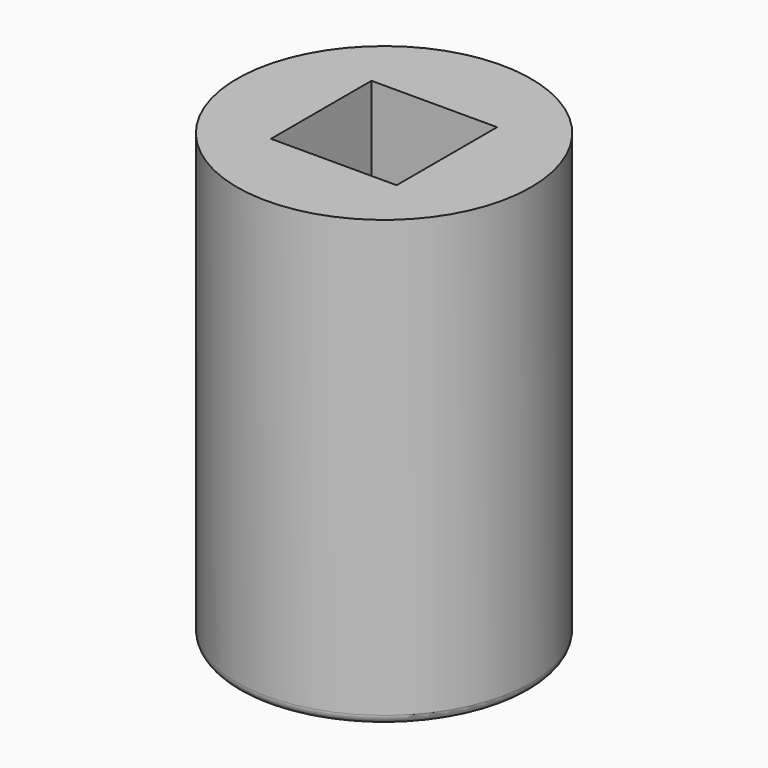
from build123d import *

# Parameters (mm, degrees)
F0_R     = 15.5
F1_DEPTH = 31
F2_R     = 15.5
F3_DEPTH = 16
F4_W     = 13.25
F4_H     = 13.25
F5_DEPTH = 16
F6_W     = 13.25
F6_H     = 1.5
F7_DEPTH = 0.25
F8_R     = 1


with BuildPart() as f1:
    # F0 (on Top) → F1 (new body)
    with BuildSketch(Plane.XY):
        Circle(F0_R)
        Polygon((-5.528129, 9.575), (5.528129, 9.575), (11.056258, 0), (5.528129, -9.575), (-5.528129, -9.575), (-11.056258, 0), align=None, mode=Mode.SUBTRACT)
    extrude(amount=F1_DEPTH)

    # F2 (on face) → F3 (join)
    with BuildSketch(Plane.XY.offset(31)):
        Circle(F2_R)
    extrude(amount=F3_DEPTH)

    # F4 (on face) → F5 (cut, through all)
    with BuildSketch(Plane.XY.offset(47)):
        Rectangle(F4_W, F4_H)
    extrude(amount=-F5_DEPTH, mode=Mode.SUBTRACT)

    # F6 (on face) → F7 (cut)
    with BuildSketch(Plane(origin=(6.625, 0, 0), x_dir=(0, -1, 0), z_dir=(-1, 0, 0))):
        with Locations((0, 40.95)):
            Rectangle(F6_W, F6_H)
    extrude(amount=-F7_DEPTH, mode=Mode.SUBTRACT)

    # F8
    f8_edges = [f1.edges().sort_by_distance(p)[0] for p in [
        (-15.5, 0, 0),
    ]]
    fillet(f8_edges, radius=F8_R)


solid = f1.part
